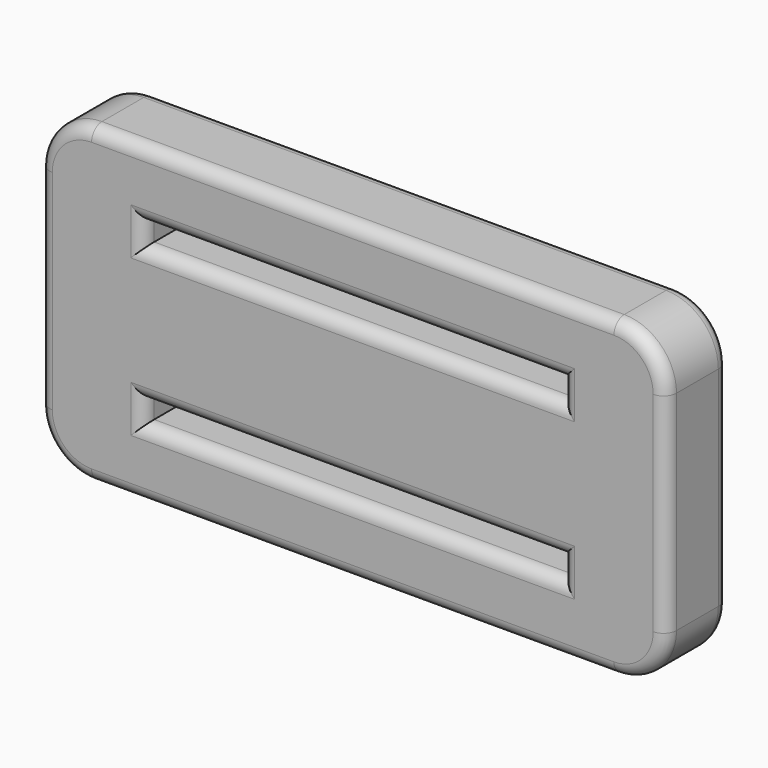
from build123d import *

# Parameters (mm, degrees)
F0_W     = 38.1
F0_H     = 19.05
F0_W_2   = 25.4
F0_H_2   = 1.27
F1_DEPTH = 4.7498
F2_R     = 3.175
F3_R     = 0.7874


with BuildPart() as f1:
    # F0 (on Front) → F1 (new body)
    with BuildSketch(Plane.XZ):
        Rectangle(F0_W, F0_H)
        with Locations((0, -4.7498)):
            Rectangle(F0_W_2, F0_H_2, mode=Mode.SUBTRACT)
        with Locations((0, 4.7498)):
            Rectangle(F0_W_2, F0_H_2, mode=Mode.SUBTRACT)
    extrude(amount=-F1_DEPTH)

    # F2
    f2_edges = [f1.edges().sort_by_distance(p)[0] for p in [
        (19.05, 2.3749, 9.525),
        (19.05, 2.3749, -9.525),
        (-19.05, 2.3749, 9.525),
        (-19.05, 2.3749, -9.525),
    ]]
    fillet(f2_edges, radius=F2_R)

    # F3
    f3_edges = [f1.edges().sort_by_distance(p)[0] for p in [
        (19.05, 0, 0),
        (18.120064, 0, -8.595064),
        (18.120064, 0, 8.595064),
        (0, 0, -9.525),
        (0, 0, 9.525),
        (-18.120064, 0, -8.595064),
        (-18.120064, 0, 8.595064),
        (-19.05, 0, 0),
        (-12.7, 0, -4.7498),
        (0, 0, -4.1148),
        (12.7, 0, -4.7498),
        (0, 0, -5.3848),
        (0, 0, 4.1148),
        (-12.7, 0, 4.7498),
        (0, 0, 5.3848),
        (12.7, 0, 4.7498),
        (19.05, 4.7498, 0),
        (18.120064, 4.7498, -8.595064),
        (18.120064, 4.7498, 8.595064),
        (0, 4.7498, -9.525),
        (0, 4.7498, 9.525),
        (-18.120064, 4.7498, -8.595064),
        (-18.120064, 4.7498, 8.595064),
        (-19.05, 4.7498, 0),
        (-12.7, 4.7498, -4.7498),
        (0, 4.7498, -4.1148),
        (12.7, 4.7498, -4.7498),
        (0, 4.7498, -5.3848),
        (0, 4.7498, 4.1148),
        (-12.7, 4.7498, 4.7498),
        (0, 4.7498, 5.3848),
        (12.7, 4.7498, 4.7498),
    ]]
    fillet(f3_edges, radius=F3_R)


solid = f1.part
